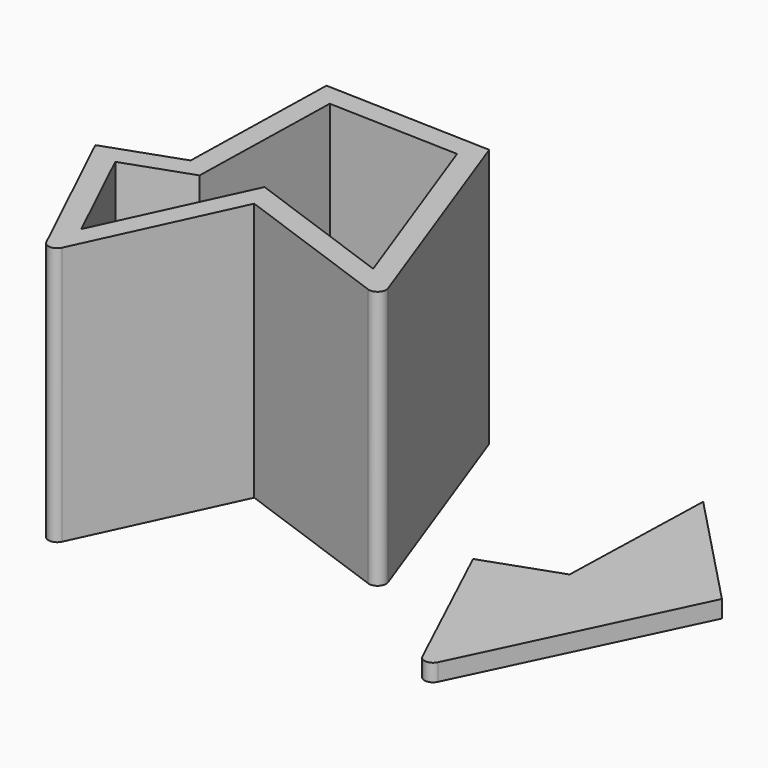
from build123d import *

# Parameters (mm, degrees)
F1_DEPTH = 3.302
F2_DEPTH = 2.54
F3_DEPTH = 38.1
F4_T     = -3.175
F5_R     = 1.27
F5_2_R   = 1.27


with BuildPart() as f1:
    # F0 (on Top) → F1 (new body)
    with BuildSketch(Plane.XY):
        Polygon((31.7754910534, -23.8814431078), (44.5872922283, 2.8911981838), (34.8218606061, 13.0945404164), (34.3045931908, -5.0098487842), (24.5324072206, -8.4666758999), align=None)
    extrude(amount=-F1_DEPTH)

    # F0 (on Top) → F2 (join)
    with BuildSketch(Plane.XY):
        Polygon((48.5493056476, 3.5247709602), (31.7482575774, 21.0792273283), (31.0701895505, -2.6531924959), (19.9950579554, -6.5709254704), (31.7482575774, -31.5841436386), align=None)
        Polygon((34.8218606061, 13.0945404164), (44.5872922283, 2.8911981838), (31.7754910534, -23.8814431078), (24.5324072206, -8.4666758999), (34.3045931908, -5.0098487842), align=None, mode=Mode.SUBTRACT)
    extrude(amount=-F2_DEPTH)

    # F5#2
    f5_2_edges = [f1.edges().sort_by_distance(p)[0] for p in [
        (31.748258, -31.584144, -1.27),
    ]]
    fillet(f5_2_edges, radius=F5_2_R)


with BuildPart() as f3:
    # F0 (on Top) → F3 (new body)
    with BuildSketch(Plane.XY):
        Polygon((3.5475699697, 16.965245828), (-21.034207195, 17.7572779357), (-21.590994671, -6.5409359522), (-32.5327776372, -10.4004116729), (-20.7060948014, -35.1737290621), (-9.1722095385, -10.3727914393), (16.9318206608, -19.7702404112), align=None)
    extrude(amount=F3_DEPTH)

    # F4
    f4_openings = [f3.faces().sort_by_distance(p)[0] for p in [
        (-8.886492, -3.880467, 38.1),
    ]]
    offset(amount=F4_T, openings=f4_openings, kind=Kind.INTERSECTION)

    # F5
    f5_edges = [f3.edges().sort_by_distance(p)[0] for p in [
        (-20.706095, -35.173729, 19.05),
        (16.931821, -19.77024, 19.05),
    ]]
    fillet(f5_edges, radius=F5_R)


solid = Compound([f1.part, f3.part])
